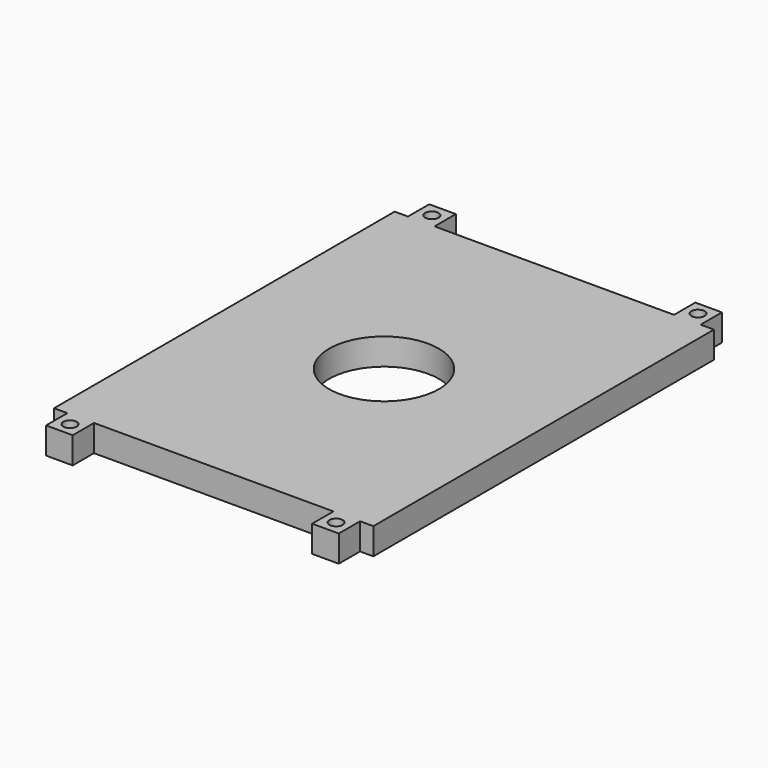
from build123d import *

# Parameters (mm, degrees)
F0_R     = 41.25
F0_W     = 20
F0_H     = 20
F0_R_2   = 5
F1_DEPTH = 20


with BuildPart() as f1:
    # F0 (on Top) → F1 (new body)
    with BuildSketch(Plane.XY):
        Polygon((110, -160), (120, -160), (120, 160), (110, 160), (90, 160), (-90, 160), (-110, 160), (-120, 160), (-120, -160), (-110, -160), (-90, -160), (90, -160), align=None)
        Circle(F0_R, mode=Mode.SUBTRACT)
        with Locations((100, -170)):
            Rectangle(F0_W, F0_H)
        with Locations((100, -170)):
            Circle(F0_R_2, mode=Mode.SUBTRACT)
        with Locations((-100, 170)):
            Rectangle(F0_W, F0_H)
        with Locations((-100, 170)):
            Circle(F0_R_2, mode=Mode.SUBTRACT)
        with Locations((-100, -170)):
            Rectangle(F0_W, F0_H)
        with Locations((-100, -170)):
            Circle(F0_R_2, mode=Mode.SUBTRACT)
        with Locations((100, 170)):
            Rectangle(F0_W, F0_H)
        with Locations((100, 170)):
            Circle(F0_R_2, mode=Mode.SUBTRACT)
    extrude(amount=F1_DEPTH)


solid = f1.part
